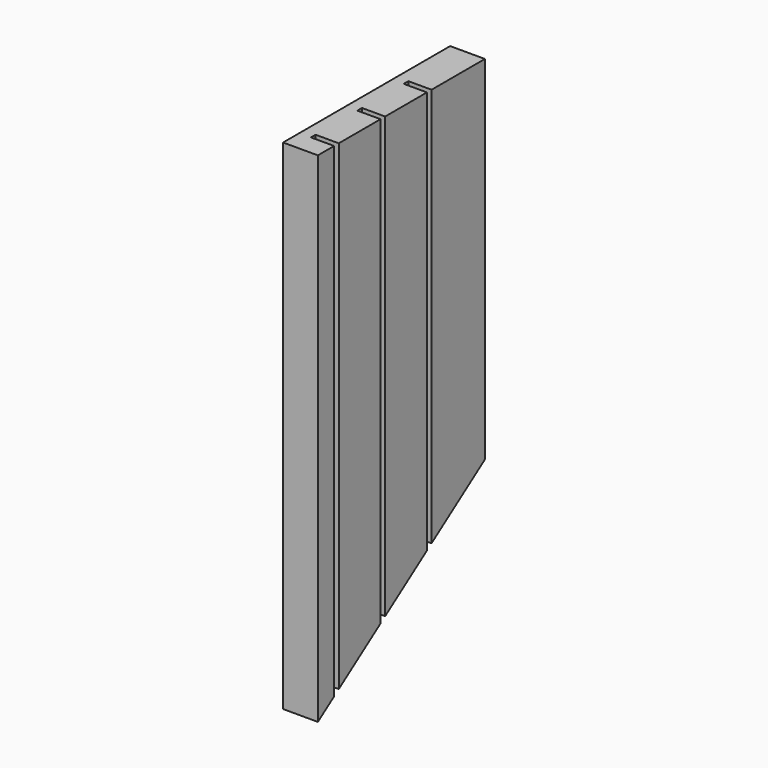
from build123d import *

# Parameters (mm, degrees)
F0_W     = 114.3
F0_H     = 273.05
F1_DEPTH = 19.05
F2_W     = 3.175
F2_H     = 273.05
F3_DEPTH = 12.7
F5_DEPTH = 19.051


with BuildPart() as f1:
    # F0 (on Right) → F1 (new body)
    with BuildSketch(Plane.YZ):
        with Locations((-57.15, -136.525)):
            Rectangle(F0_W, F0_H)
    extrude(amount=F1_DEPTH)

    # F2 (on face) → F3 (cut)
    with BuildSketch(Plane.YZ.offset(19.05)):
        with Locations((-38.1, -136.525)):
            Rectangle(F2_W, F2_H)
        with Locations((-69.85, -136.525)):
            Rectangle(F2_W, F2_H)
        with Locations((-101.6, -136.525)):
            Rectangle(F2_W, F2_H)
    extrude(amount=-F3_DEPTH, mode=Mode.SUBTRACT)

    # F4 (on face) → F5 (cut, through all)
    with BuildSketch(Plane.YZ.offset(19.05)):
        Polygon((0, -193.016278), (-114.3, -273.05), (0, -273.05), align=None)
    extrude(amount=-F5_DEPTH, mode=Mode.SUBTRACT)


solid = f1.part
